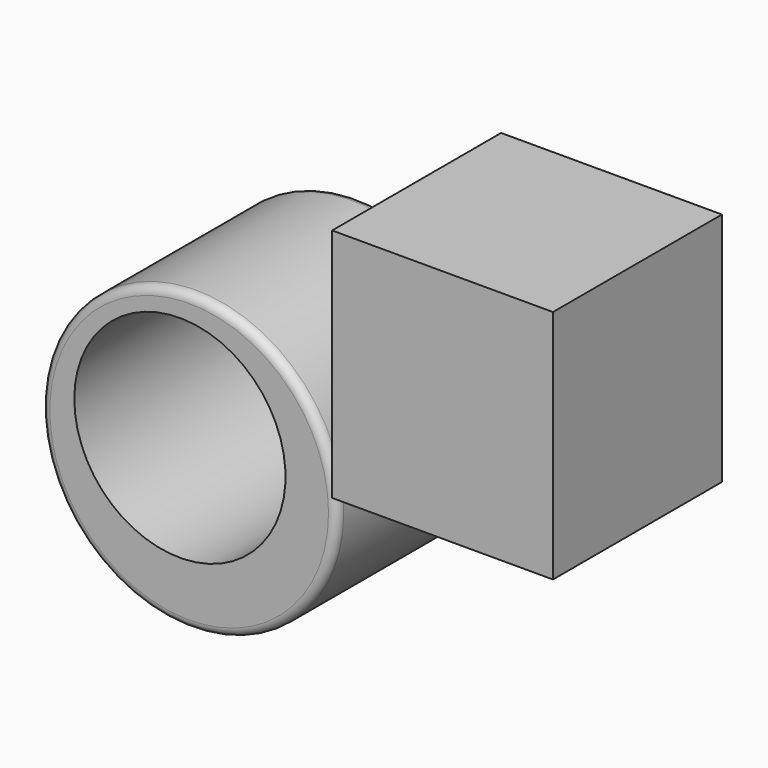
from build123d import *

# Parameters (mm, degrees)
F0_R     = 88.86888
F1_DEPTH = 127
F2_R     = 5.08
F4_D     = 127
F5_W     = 132.764369
F5_H     = 141.584768
F6_DEPTH = 127


with BuildPart() as f1:
    # F0 (on Front) → F1 (new body)
    with BuildSketch(Plane.XZ):
        with Locations((5.595607, 8.228303)):
            Circle(F0_R)
    extrude(amount=F1_DEPTH)

    # F2
    f2_edges = [f1.edges().sort_by_distance(p)[0] for p in [
        (-83.273273, -127, 8.228303),
        (94.464488, -63.5, 8.228303),
        (-83.273273, 0, 8.228303),
    ]]
    fillet(f2_edges, radius=F2_R)

    # F4 (through all)
    with Locations(Plane.XZ.offset(127)):
        with Locations((0, 19.072302)):
            Hole(F4_D / 2)


with BuildPart() as f6:
    # F5 (on face) → F6 (new body)
    with BuildSketch(Plane.XZ.offset(127)):
        with Locations((259.530827, 172.482647)):
            Rectangle(F5_W, F5_H)
    extrude(amount=F6_DEPTH)


solid = Compound([f1.part, f6.part])
